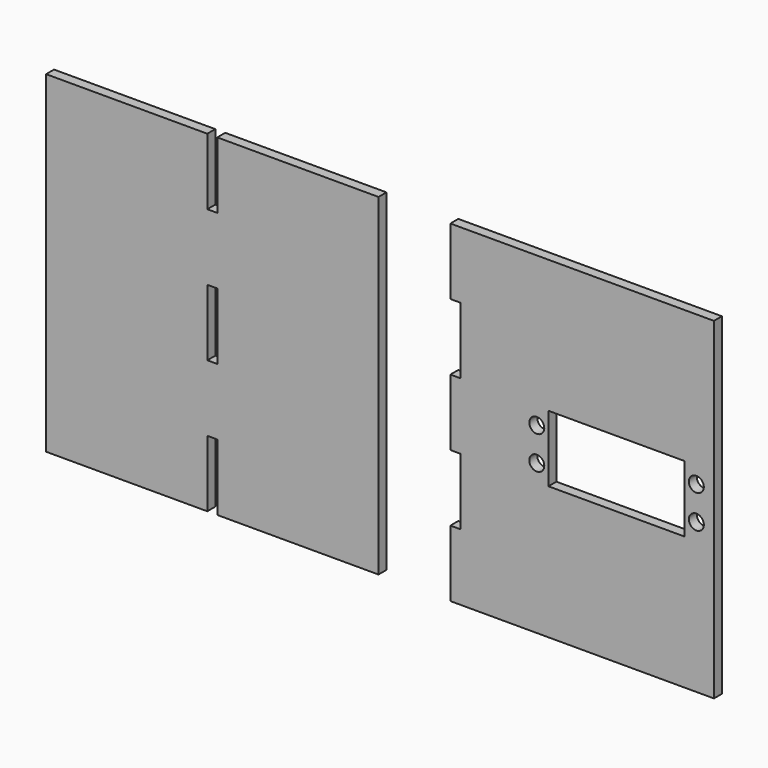
from build123d import *

# Parameters (mm, degrees)
F0_R     = 2.25
F0_W     = 41
F0_H     = 20
F0_W_2   = 3
F1_DEPTH = 3


with BuildPart() as f1:
    # F0 (on Front) → F1 (new body)
    with BuildSketch(Plane.XZ):
        Polygon((29.294718, 50), (-50, 50), (-50, 30), (-47, 30), (-47, 10), (-50, 10), (-50, -10), (-47, -10), (-47, -30), (-50, -30), (-50, -50), (29.294718, -50), align=None)
        with Locations((-24, -5)):
            Circle(F0_R, mode=Mode.SUBTRACT)
        with Locations((24, -5)):
            Circle(F0_R, mode=Mode.SUBTRACT)
        with Locations((-24, 5)):
            Circle(F0_R, mode=Mode.SUBTRACT)
        Rectangle(F0_W, F0_H, mode=Mode.SUBTRACT)
        with Locations((24, 5)):
            Circle(F0_R, mode=Mode.SUBTRACT)
        Polygon((-71.615496, -50), (-71.615496, 50), (-120.115496, 50), (-120.115496, 30), (-123.115496, 30), (-123.115496, 50), (-171.615496, 50), (-171.615496, -50), (-123.115496, -50), (-123.115496, -30), (-120.115496, -30), (-120.115496, -50), align=None)
        with Locations((-121.615496, 0)):
            Rectangle(F0_W_2, F0_H, mode=Mode.SUBTRACT)
    extrude(amount=F1_DEPTH)


solid = f1.part
